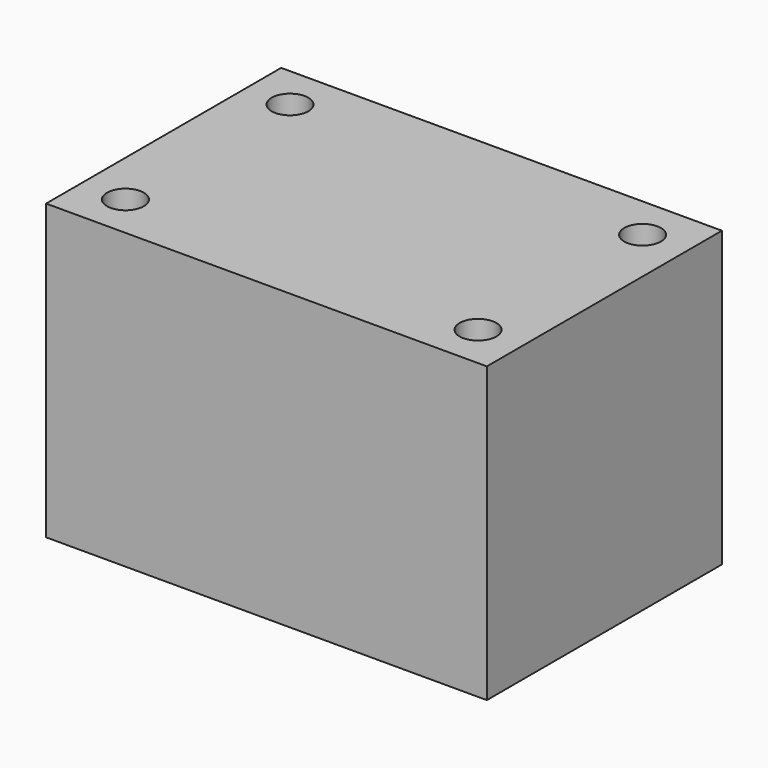
from build123d import *

# Parameters (mm, degrees)
F0_W     = 76.2
F0_H     = 50.8
F1_DEPTH = 25.4
F3_D     = 6.35


with BuildPart() as f1:
    # F0 (on Front) → F1 (new body, symmetric)
    with BuildSketch(Plane.XZ):
        Rectangle(F0_W, F0_H)
    extrude(amount=F1_DEPTH, both=True)

    # F3 (through all)
    with Locations(Plane.XY.offset(25.4)):
        with Locations((30.48, -17.78), (-30.48, -17.78), (30.48, 17.78), (-30.48, 17.78)):
            Hole(F3_D / 2)


solid = f1.part
